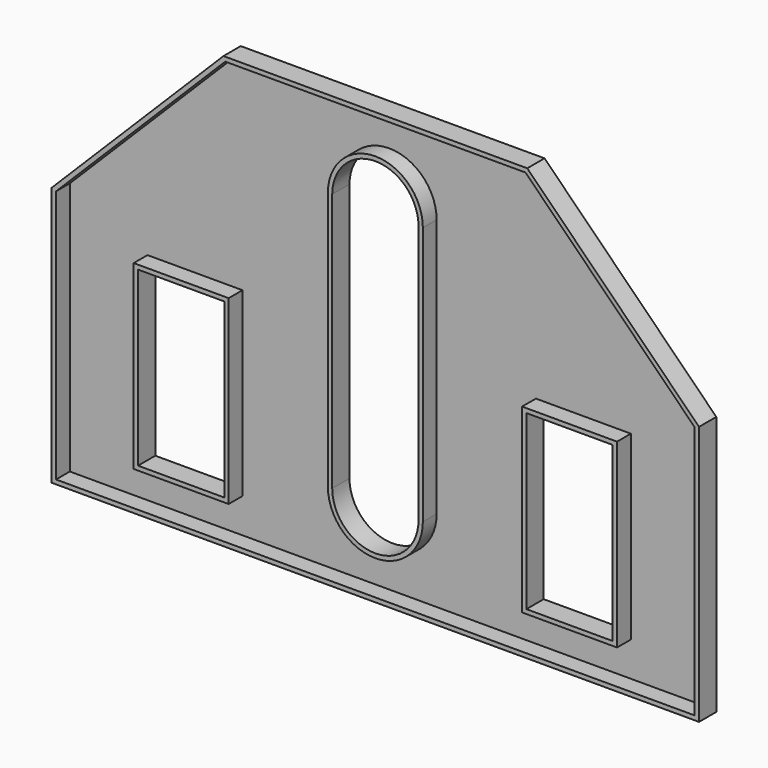
from build123d import *

# Parameters (mm, degrees)
F0_W     = 50.8
F0_H     = 101.6
F1_DEPTH = 12.7
F2_T     = -2.54


with BuildPart() as f1:
    # F0 (on Front) → F1 (new body)
    with BuildSketch(Plane.XZ):
        Polygon((-190.5, 25.9021391869), (-190.5, -127), (190.5, -127), (190.5, 25.9021391869), (89.4021391869, 127), (-89.4021391869, 127), align=None)
        with Locations((-114.3, -50.8)):
            Rectangle(F0_W, F0_H, mode=Mode.SUBTRACT)
        with Locations((114.3, -50.8)):
            Rectangle(F0_W, F0_H, mode=Mode.SUBTRACT)
        with BuildLine():
            Line((-25.4, -76.2), (-25.4, 76.2))
            ThreePointArc((-25.4, 76.2), (0, 101.6), (25.4, 76.2))
            Line((25.4, 76.2), (25.4, -76.2))
            ThreePointArc((25.4, -76.2), (0, -101.6), (-25.4, -76.2))
        make_face(mode=Mode.SUBTRACT)
    extrude(amount=F1_DEPTH)

    # F2
    f2_openings = [f1.faces().sort_by_distance(p)[0] for p in [
        (-136.713192, -12.7, 73.213192),
    ]]
    offset(amount=F2_T, openings=f2_openings, kind=Kind.INTERSECTION)


solid = f1.part
